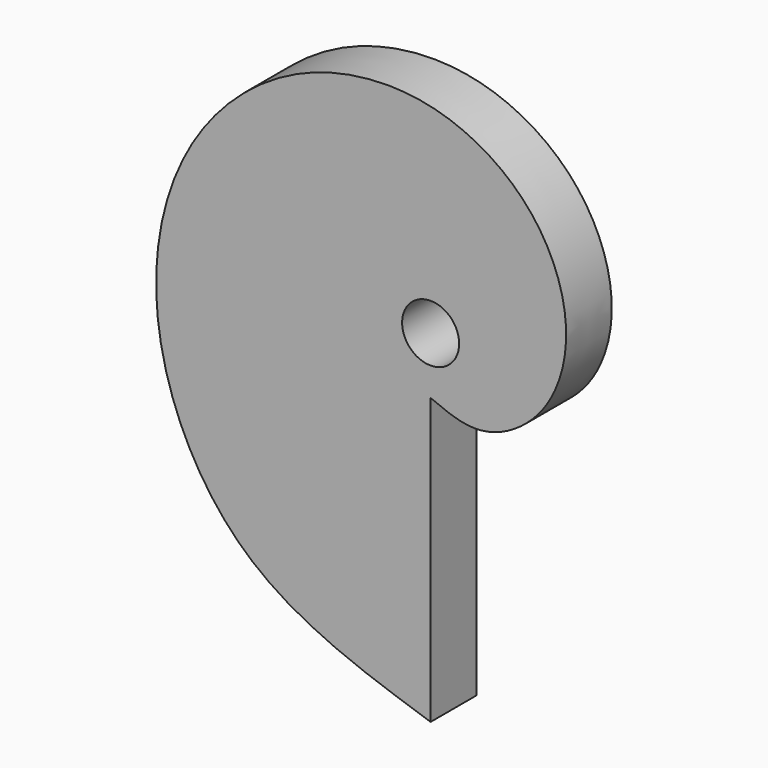
from build123d import *

# Parameters (mm, degrees)
F0_R     = 5
F1_DEPTH = 10


with BuildPart() as f1:
    # F0 (on Front) → F1 (new body)
    with BuildSketch(Plane.XZ):
        with BuildLine():
            Line((0, -60), (0, -10))
            add(Edge.make_bspline(
                [(0, -10), (2.8557320657, -11.2106310467), (8.9669847042, -13.8013755592), (20.5847877531, -6.9678331332), (25.6856872566, 8.0249042439), (19.183746461, 25.9177580319), (0.3110148569, 37.572591461), (-25.0102497939, 34.8206602842), (-45.7407483513, 15.16895238), (-50.9829330961, -16.0737687029), (-34.8496871839, -48.550220252), (-11.7701863112, -56.1329339875), (0, -60)],
                knots=[0, 0, 0, 0, 0.0651769705, 0.1394783977, 0.2225630026, 0.3134102804, 0.4116136416, 0.5169779053, 0.6285199954, 0.7466748628, 0.870808122, 1, 1, 1, 1], degree=3))
        make_face()
        Circle(F0_R, mode=Mode.SUBTRACT)
    extrude(amount=F1_DEPTH)


solid = f1.part
